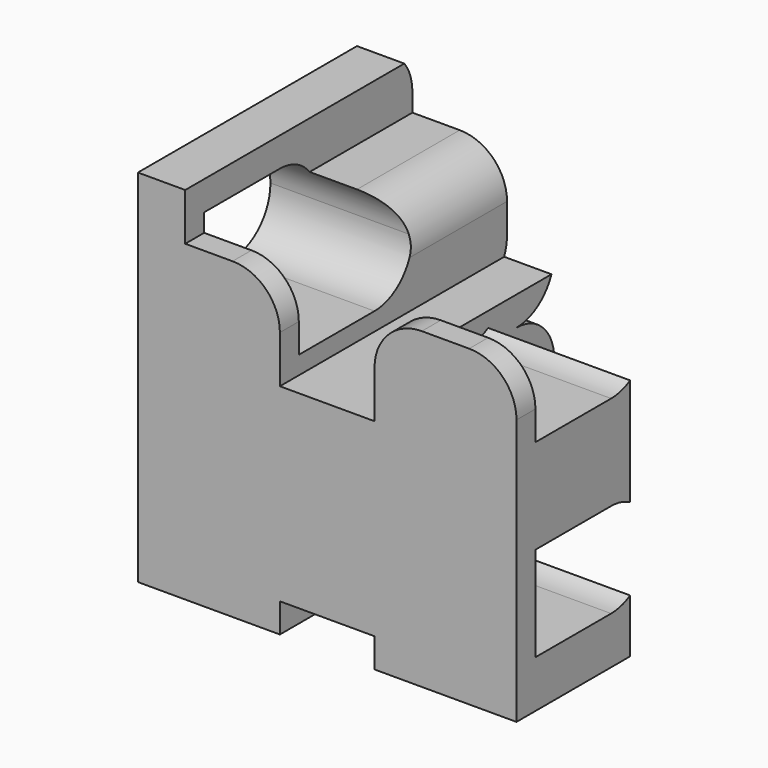
from build123d import *

# Parameters (mm, degrees)
F3_DEPTH = 25
F4_DEPTH = 25
F2_W     = 5
F2_H     = 5
F2_W_2   = 10
F2_H_2   = 20
F5_DEPTH = 25


with BuildPart() as f3:
    # F0 (on Top) → F3 (new body, symmetric)
    with BuildSketch(Plane.XY):
        Polygon((0, 20), (-20, 20), (-20, -20), (20, -20), (20, -5), (0, -5), align=None)
    extrude(amount=F3_DEPTH, both=True)

    # F1 (on Right) → F4 (intersect, symmetric)
    with BuildSketch(Plane.YZ):
        with BuildLine():
            Line((5, 20), (-20, 20))
            Line((-20, 20), (-20, -20))
            Line((-20, -20), (5, -20))
            ThreePointArc((5, -20), (8.535534, -18.535534), (10, -15))
            Line((10, -15), (10, -5))
            ThreePointArc((10, -5), (8.535534, -1.464466), (5, 0))
            ThreePointArc((5, 0), (8.535534, 1.464466), (10, 5))
            Line((10, 5), (10, 15))
            ThreePointArc((10, 15), (8.535534, 18.535534), (5, 20))
        make_face()
        with BuildLine():
            Line((-17.5, -5), (-7.5, -5))
            ThreePointArc((-7.5, -5), (-3.964466, -6.464466), (-2.5, -10))
            ThreePointArc((-2.5, -10), (-3.964466, -13.535534), (-7.5, -15))
            Line((-7.5, -15), (-17.5, -15))
            Line((-17.5, -15), (-17.5, -5))
        make_face(mode=Mode.SUBTRACT)
        with BuildLine():
            Line((-17.5, 15), (-7.5, 15))
            ThreePointArc((-7.5, 15), (-3.964466, 13.535534), (-2.5, 10))
            ThreePointArc((-2.5, 10), (-3.964466, 6.464466), (-7.5, 5))
            Line((-7.5, 5), (-17.5, 5))
            Line((-17.5, 5), (-17.5, 15))
        make_face(mode=Mode.SUBTRACT)
    extrude(amount=F4_DEPTH, both=True, mode=Mode.INTERSECT)

    # F2 (on Front) → F5 (intersect, symmetric)
    with BuildSketch(Plane.XZ):
        with Locations((-17.5, 15.590909)):
            Rectangle(F2_W, F2_H)
        with BuildLine():
            Line((-15, 13.090909), (-20, 13.090909))
            Line((-20, 13.090909), (-20, -21.909091))
            Line((-20, -21.909091), (-5, -21.909091))
            Line((-5, -21.909091), (-5, -16.909091))
            Line((-5, -16.909091), (-5, 3.090909))
            Line((-5, 3.090909), (-5, 8.090909))
            ThreePointArc((-5, 8.090909), (-6.464466, 11.626443), (-10, 13.090909))
            Line((-10, 13.090909), (-15, 13.090909))
        make_face()
        with Locations((0, -6.909091)):
            Rectangle(F2_W_2, F2_H_2)
        with BuildLine():
            Line((5, 3.090909), (5, -16.909091))
            Line((5, -16.909091), (5, -21.909091))
            Line((5, -21.909091), (20, -21.909091))
            Line((20, -21.909091), (20, 8.090909))
            ThreePointArc((20, 8.090909), (18.535534, 11.626443), (15, 13.090909))
            Line((15, 13.090909), (10, 13.090909))
            ThreePointArc((10, 13.090909), (6.464466, 11.626443), (5, 8.090909))
            Line((5, 8.090909), (5, 3.090909))
        make_face()
    extrude(amount=F5_DEPTH, both=True, mode=Mode.INTERSECT)


solid = f3.part
